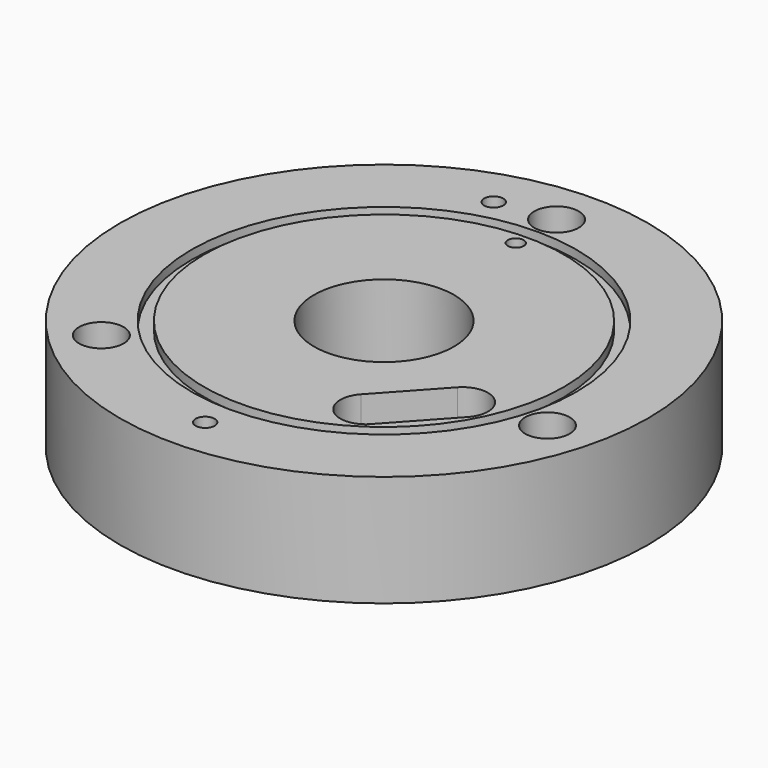
from build123d import *

# Parameters (mm, degrees)
F0_R      = 41.5
F1_DEPTH  = 29
F2_R      = 41.5
F2_R_2    = 16.5
F3_DEPTH  = 11.5
F4_R      = 11
F5_DEPTH  = 29.001
F6_R      = 12.75
F7_DEPTH  = 5
F8_R      = 1.5
F9_DEPTH  = 29.001
F10_D     = 7
F11_W     = 2
F11_H     = 1.4
F13_D     = 2.5
F15_DEPTH = 9
F16_R     = 6
F17_DEPTH = 13


with BuildPart() as f1:
    # F0 (on Top) → F1 (new body)
    with BuildSketch(Plane.XY):
        Circle(F0_R)
    extrude(amount=F1_DEPTH)

    # F2 (on face) → F3 (cut)
    with BuildSketch(Plane(origin=(0, 0, 0), x_dir=(1, 0, 0), z_dir=(0, 0, -1))):
        Circle(F2_R)
        Circle(F2_R_2, mode=Mode.SUBTRACT)
    extrude(amount=-F3_DEPTH, mode=Mode.SUBTRACT)

    # F4 (on face) → F5 (cut, through all)
    with BuildSketch(Plane(origin=(0, 0, 0), x_dir=(1, 0, 0), z_dir=(0, 0, -1))):
        Circle(F4_R)
    extrude(amount=-F5_DEPTH, mode=Mode.SUBTRACT)

    # F6 (on face) → F7 (cut)
    with BuildSketch(Plane(origin=(0, 0, 0), x_dir=(1, 0, 0), z_dir=(0, 0, -1))):
        Circle(F6_R)
    extrude(amount=-F7_DEPTH, mode=Mode.SUBTRACT)

    # F8 (on face) → F9 (cut, through all)
    with BuildSketch(Plane.XY.offset(29)):
        with Locations((-9.203227, 33.048392)):
            Circle(F8_R)
        with Locations((-0.27397, -34.776049)):
            Circle(F8_R)
    extrude(amount=-F9_DEPTH, mode=Mode.SUBTRACT)

    # F10 (through all)
    with Locations(Plane.XY.offset(29)):
        with Locations((-0.27397, 34.223951), (33.050471, -9.205307), (-24.669154, -24.671233)):
            Hole(F10_D / 2)

    # F11 (on Front) → F12 (revolve, cut)
    with BuildSketch(Plane.XZ):
        with Locations((29.24357, 28.3)):
            Rectangle(F11_W, F11_H)
    revolve(axis=Axis((0, 0, 11.697991), (0, 0, 1)), mode=Mode.SUBTRACT)

    # F13 (through all)
    with Locations(Plane.XY.offset(29)):
        with Locations((-0.27397, 26.223951)):
            Hole(F13_D / 2)

    # F14 (on face) → F15 (cut)
    with BuildSketch(Plane.XY.offset(29)):
        with BuildLine():
            Line((16.103088, -22.212727), (24.192653, -13.349379))
            ThreePointArc((24.192653, -13.349379), (23.621079, -7.823223), (18.07709, -8.182768))
            Line((18.07709, -8.182768), (9.987525, -17.046116))
            ThreePointArc((9.987525, -17.046116), (10.361111, -22.806624), (16.103088, -22.212727))
        make_face()
    extrude(amount=-F15_DEPTH, mode=Mode.SUBTRACT)

    # F16 (on face) → F17 (cut)
    with BuildSketch(Plane(origin=(0, 0, 11.5), x_dir=(1, 0, 0), z_dir=(0, 0, -1))):
        with Locations((21.92031, 21.92031)):
            Circle(F16_R)
    extrude(amount=-F17_DEPTH, mode=Mode.SUBTRACT)


solid = f1.part
